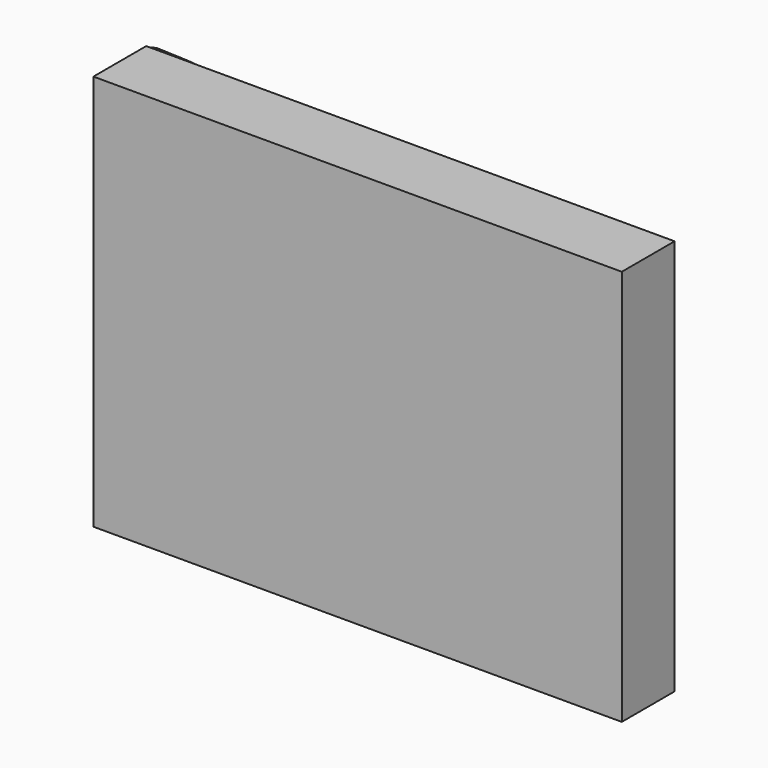
from build123d import *

# Parameters (mm, degrees)
F3_DEPTH = 12.7


with BuildPart() as f2:
    # F2: sweep along a path in F0
    with BuildLine(Plane.XZ) as f2_path:
        ThreePointArc((0, 76.2), (53.881537, 53.881537), (76.2, 0))
    # F1 (on Top) → F2 (sweep)
    with BuildSketch(Plane.XY):
        with BuildLine():
            Line((52.193511, 0), (75.958066, 0))
            ThreePointArc((75.958066, 0), (64.075788, 8.704073), (52.193511, 0))
        make_face()
    sweep(path=f2_path.line)

    # F0 (on Front) → F3 (join)
    with BuildSketch(Plane.XZ):
        with BuildLine():
            Line((0, 76.2), (0, 0))
            Line((0, 0), (76.2, 0))
            ThreePointArc((76.2, 0), (53.881537, 53.881537), (0, 76.2))
        make_face()
        with BuildLine():
            ThreePointArc((0, 76.2), (53.881537, 53.881537), (76.2, 0))
            Line((76.2, 0), (101.6, 0))
            Line((101.6, 0), (101.6, 76.2))
            Line((101.6, 76.2), (0, 76.2))
        make_face()
    extrude(amount=F3_DEPTH)


solid = f2.part
